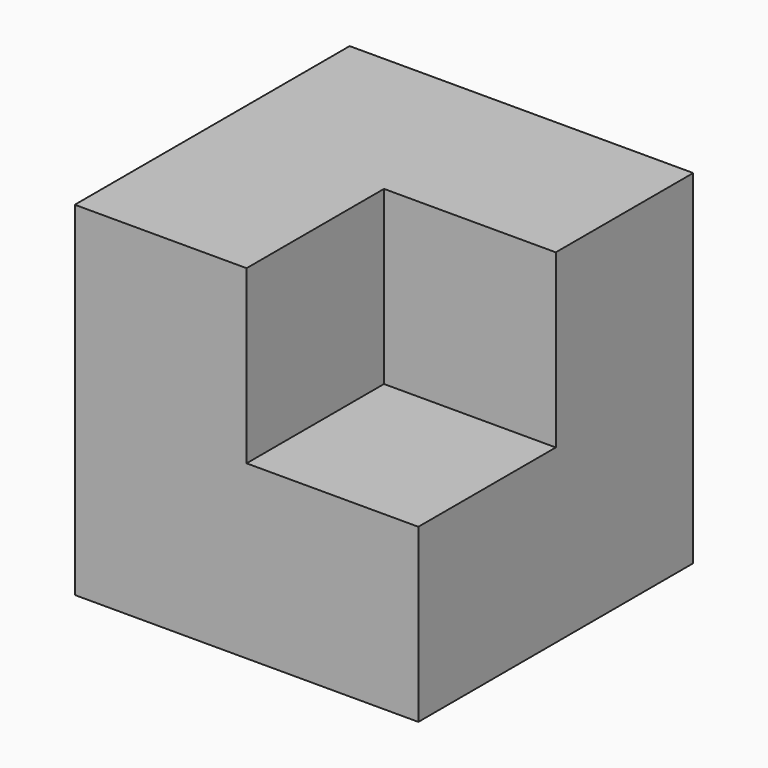
from build123d import *

# Parameters (mm, degrees)
F0_W     = 25.4
F0_H     = 25.4
F1_DEPTH = 12.7
F2_W     = 12.7
F2_H     = 12.7
F3_DEPTH = 12.7


with BuildPart() as f1:
    # F0 (on Top) → F1 (new body, symmetric)
    with BuildSketch(Plane.XY):
        Rectangle(F0_W, F0_H)
    extrude(amount=F1_DEPTH, both=True)

    # F2 (on face) → F3 (cut)
    with BuildSketch(Plane.XY.offset(12.7)):
        with Locations((6.35, -6.35)):
            Rectangle(F2_W, F2_H)
    extrude(amount=-F3_DEPTH, mode=Mode.SUBTRACT)


solid = f1.part
